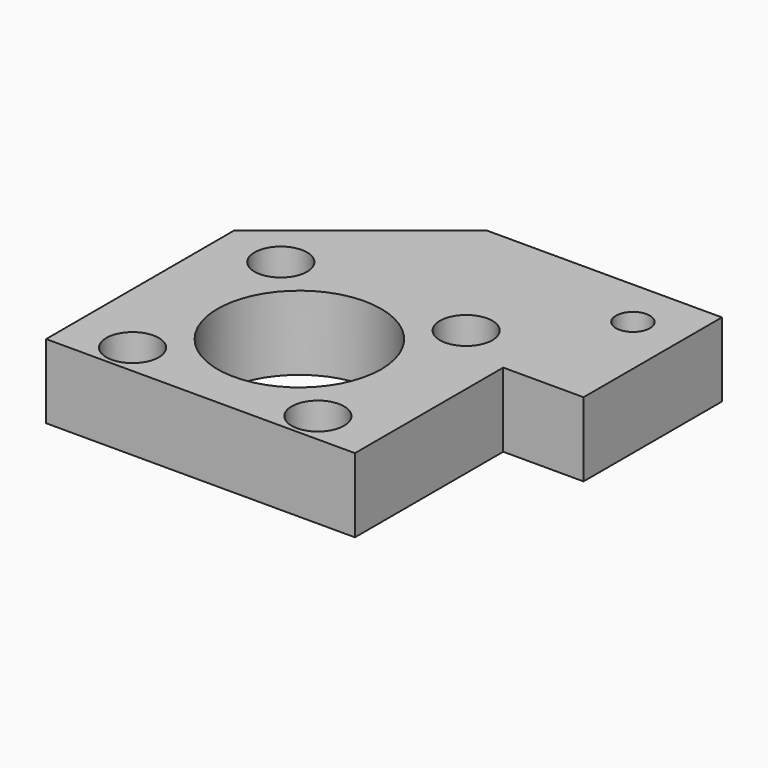
from build123d import *

# Parameters (mm, degrees)
F0_R     = 2.75
F0_R_2   = 13.25
F1_DEPTH = 12
F2_R     = 4.25
F3_DEPTH = 6
F4_R     = 4.25
F5_DEPTH = 6


with BuildPart() as f1:
    # F0 (on Top) → F1 (new body)
    with BuildSketch(Plane.XY):
        Polygon((0, 38), (0, 0), (50, 0), (50, 30), (63, 30), (63, 58), (25, 58), align=None)
        with Locations((10, 5)):
            Circle(F0_R, mode=Mode.SUBTRACT)
        with Locations((25, 20)):
            Circle(F0_R_2, mode=Mode.SUBTRACT)
        with Locations((40, 5)):
            Circle(F0_R, mode=Mode.SUBTRACT)
        with Locations((10, 35)):
            Circle(F0_R, mode=Mode.SUBTRACT)
        with Locations((40, 35)):
            Circle(F0_R, mode=Mode.SUBTRACT)
        with Locations((55, 50)):
            Circle(F0_R, mode=Mode.SUBTRACT)
    extrude(amount=F1_DEPTH)

    # F2 (on face) → F3 (cut)
    with BuildSketch(Plane.XY.offset(12)):
        with Locations((10, 35)):
            Circle(F2_R)
        with Locations((40, 35)):
            Circle(F2_R)
        with Locations((10, 5)):
            Circle(F2_R)
        with Locations((40, 5)):
            Circle(F2_R)
    extrude(amount=-F3_DEPTH, mode=Mode.SUBTRACT)

    # F4 (on face) → F5 (cut)
    with BuildSketch(Plane(origin=(0, 0, 0), x_dir=(1, 0, 0), z_dir=(0, 0, -1))):
        with Locations((55, -50)):
            Circle(F4_R)
    extrude(amount=-F5_DEPTH, mode=Mode.SUBTRACT)


solid = f1.part
